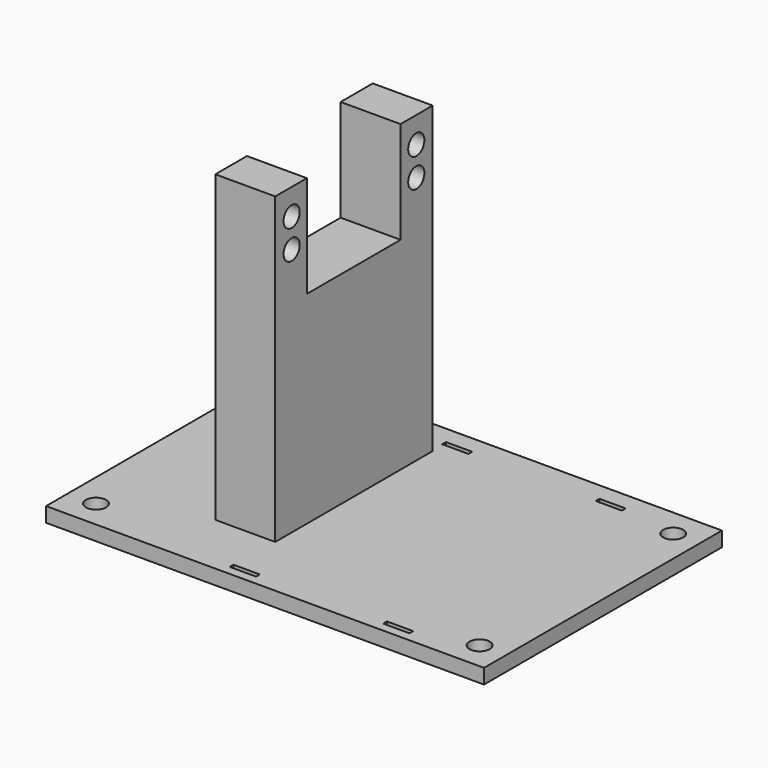
from build123d import *

# Parameters (mm, degrees)
F0_W      = 99.28
F0_H      = 99.28
F1_DEPTH  = 5
F2_R      = 9.975
F3_DEPTH  = 50.12
F4_R      = 6.97414
F5_DEPTH  = 45
F6_W      = 10.15
F6_H      = 33.35
F7_DEPTH  = 51.54
F8_W      = 19.84
F8_H      = 17.26
F9_DEPTH  = 30.101
F10_R     = 1.715
F11_DEPTH = 30.101
F12_W     = 99.28
F12_H     = 26.759172
F13_DEPTH = 55.121
F14_W     = 25.082288
F14_H     = 72.520828
F15_DEPTH = 55.121
F16_W     = 74.197712
F16_H     = 22.137212
F17_DEPTH = 55.121
F18_R     = 1.715
F19_DEPTH = 30.101
F20_W     = 4.45
F20_H     = 0.8
F21_DEPTH = 55.121
F22_R     = 1.72
F23_DEPTH = 55.121
F24_W     = 50.383616
F24_H     = 56.672631
F25_DEPTH = 74.198713


with BuildPart() as f1:
    # F0 (on Top) → F1 (new body)
    with BuildSketch(Plane.XY):
        with Locations((1.248532, -12.53785)):
            Rectangle(F0_W, F0_H)
    extrude(amount=F1_DEPTH)

    # F2 (on face) → F3 (join)
    with BuildSketch(Plane(origin=(0, 0, 0), x_dir=(1, 0, 0), z_dir=(0, 0, -1))):
        with Locations((0, 12.20285)):
            Circle(F2_R)
    extrude(amount=F3_DEPTH)

    # F4 (on face) → F5 (cut)
    with BuildSketch(Plane(origin=(0, 0, -50.12), x_dir=(1, 0, 0), z_dir=(0, 0, -1))):
        with Locations((0, 12.20285)):
            Circle(F4_R)
    extrude(amount=-F5_DEPTH, mode=Mode.SUBTRACT)

    # F6 (on face) → F7 (join)
    with BuildSketch(Plane.XY.offset(5)):
        with Locations((-23.366468, -12.46285)):
            Rectangle(F6_W, F6_H)
    extrude(amount=F7_DEPTH)

    # F8 (on face) → F9 (cut, through all)
    with BuildSketch(Plane.YZ.offset(-18.291468)):
        with Locations((-12.51785, 47.91)):
            Rectangle(F8_W, F8_H)
    extrude(amount=-F9_DEPTH, mode=Mode.SUBTRACT)

    # F10 (on face) → F11 (cut, through all)
    with BuildSketch(Plane.YZ.offset(-18.291468)):
        with Locations((-25.66285, 52.125)):
            Circle(F10_R)
        with Locations((-25.66285, 47.205)):
            Circle(F10_R)
    extrude(amount=-F11_DEPTH, mode=Mode.SUBTRACT)

    # F12 (on face) → F13 (cut, through all)
    with BuildSketch(Plane.XY.offset(5)):
        with Locations((1.248532, 23.722564)):
            Rectangle(F12_W, F12_H)
    extrude(amount=-F13_DEPTH, mode=Mode.SUBTRACT)

    # F14 (on face) → F15 (cut, through all)
    with BuildSketch(Plane.XY.offset(5)):
        with Locations((38.347388, -25.917436)):
            Rectangle(F14_W, F14_H)
    extrude(amount=-F15_DEPTH, mode=Mode.SUBTRACT)

    # F16 (on face) → F17 (cut, through all)
    with BuildSketch(Plane.XY.offset(5)):
        with Locations((-11.292612, -51.109244)):
            Rectangle(F16_W, F16_H)
    extrude(amount=-F17_DEPTH, mode=Mode.SUBTRACT)

    # F18 (on face) → F19 (cut, through all)
    with BuildSketch(Plane.YZ.offset(-18.291468)):
        with Locations((0.73715, 52.125)):
            Circle(F18_R)
        with Locations((0.73715, 47.205)):
            Circle(F18_R)
    extrude(amount=-F19_DEPTH, mode=Mode.SUBTRACT)

    # F20 (on face) → F21 (cut, through all)
    with BuildSketch(Plane.XY.offset(5)):
        with Locations((-16.306812, -38.074275)):
            Rectangle(F20_W, F20_H)
        with Locations((-16.306812, 6.925725)):
            Rectangle(F20_W, F20_H)
        with Locations((9.693188, -38.074275)):
            Rectangle(F20_W, F20_H)
        with Locations((9.693188, 6.925725)):
            Rectangle(F20_W, F20_H)
    extrude(amount=-F21_DEPTH, mode=Mode.SUBTRACT)

    # F22 (on face) → F23 (cut, through all)
    with BuildSketch(Plane.XY.offset(5)):
        with Locations((-43.671468, 5.622978)):
            Circle(F22_R)
        with Locations((-43.671468, -35.377022)):
            Circle(F22_R)
        with Locations((21.328532, 5.622978)):
            Circle(F22_R)
        with Locations((21.328532, -35.377022)):
            Circle(F22_R)
    extrude(amount=-F23_DEPTH, mode=Mode.SUBTRACT)

    # F24 (on face) → F25 (cut, through all)
    with BuildSketch(Plane.YZ.offset(25.806244)):
        with Locations((-14.84883, -25.836315)):
            Rectangle(F24_W, F24_H)
    extrude(amount=-F25_DEPTH, mode=Mode.SUBTRACT)


solid = f1.part
